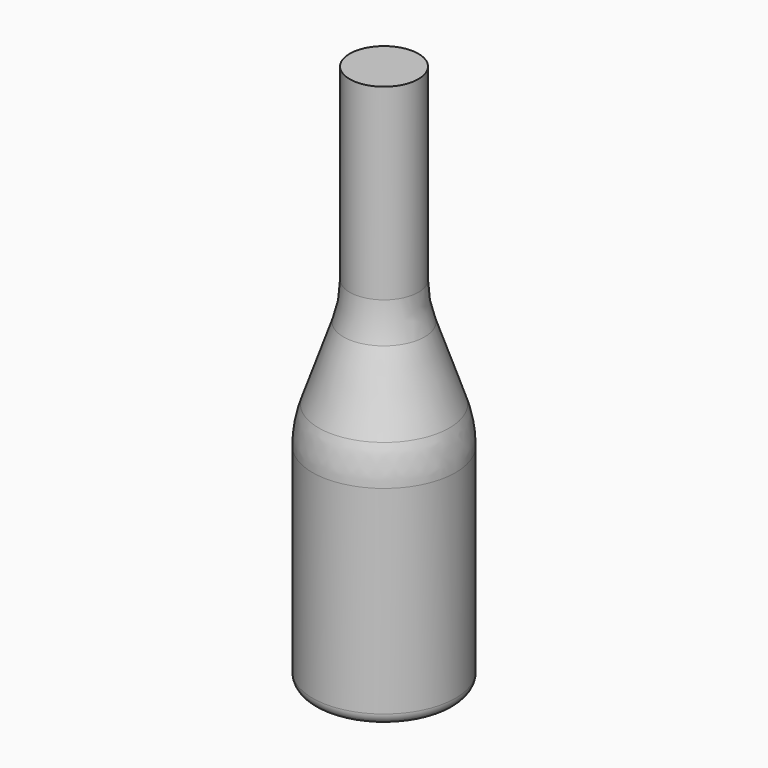
from build123d import *

# Parameters (mm, degrees)
F2_R = 5.08
F3_R = 50.8


with BuildPart() as f1:
    # F0 (on Front) → F1 (revolve)
    with BuildSketch(Plane.XZ):
        Polygon((15.24, 120.65), (0, 120.65), (0, -120.65), (31.75, -120.65), (31.75, -19.05), (15.24, 28.955315), align=None)
    revolve(axis=Axis((0, 0, 2.313137), (0, 0, -1)))

    # F2
    f2_edges = [f1.edges().sort_by_distance(p)[0] for p in [
        (-31.75, 0, -120.65),
    ]]
    fillet(f2_edges, radius=F2_R)

    # F3
    f3_edges = [f1.edges().sort_by_distance(p)[0] for p in [
        (-31.75, 0, -19.05),
        (-15.24, 0, 28.955315),
    ]]
    fillet(f3_edges, radius=F3_R)


solid = f1.part
